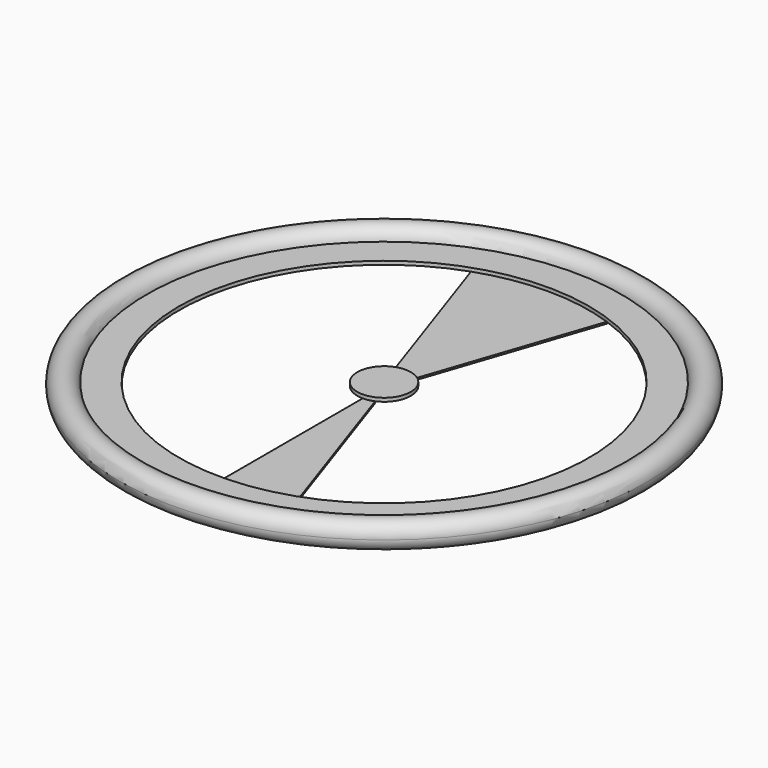
from build123d import *

# Parameters (mm, degrees)
F3_DEPTH = 25
F5_DEPTH = 1


with BuildPart() as f1:
    # F0 (on Front) → F1 (revolve)
    with BuildSketch(Plane.XZ):
        with BuildLine():
            Line((140.5242234468, 0.9917852003), (133.0900885196, 0.9917852003))
            ThreePointArc((133.0900885196, 0.9917852003), (133.0407078307, 0.4969849322), (133.0242234468, 0))
            Line((133.0242234468, 0), (140.5242234468, 0))
            Line((140.5242234468, 0), (140.5242234468, 0.9917852003))
        make_face()
        with BuildLine():
            ThreePointArc((133.0242234468, 0), (133.0407078307, -0.4969849322), (133.0900885196, -0.9917852003))
            Line((133.0900885196, -0.9917852003), (140.5242234468, -0.9917852003))
            Line((140.5242234468, -0.9917852003), (140.5242234468, 0))
            Line((140.5242234468, 0), (133.0242234468, 0))
        make_face()
        with BuildLine():
            ThreePointArc((133.0900885196, -0.9917852003), (141.0212083791, -7.4835156161), (148.0242234468, 0))
            ThreePointArc((148.0242234468, 0), (141.0212083791, 7.4835156161), (133.0900885196, 0.9917852003))
            Line((133.0900885196, 0.9917852003), (140.5242234468, 0.9917852003))
            Line((140.5242234468, 0.9917852003), (140.5242234468, 0))
            Line((140.5242234468, 0), (140.5242234468, -0.9917852003))
            Line((140.5242234468, -0.9917852003), (133.0900885196, -0.9917852003))
        make_face()
        with BuildLine():
            ThreePointArc((133.0900885196, -0.9917852003), (141.0212083791, -7.4835156161), (148.0242234468, 0))
            ThreePointArc((148.0242234468, 0), (141.0212083791, 7.4835156161), (133.0900885196, 0.9917852003))
            Line((133.0900885196, 0.9917852003), (140.5242234468, 0.9917852003))
            Line((140.5242234468, 0.9917852003), (140.5242234468, 0))
            Line((140.5242234468, 0), (140.5242234468, -0.9917852003))
            Line((140.5242234468, -0.9917852003), (133.0900885196, -0.9917852003))
        make_face()
        with BuildLine():
            ThreePointArc((133.0242234468, 0), (133.0407078307, 0.4969849322), (133.0900885196, 0.9917852003))
            Line((133.0900885196, 0.9917852003), (0, 0.9917852003))
            Line((0, 0.9917852003), (0, 0))
            Line((0, 0), (133.0242234468, 0))
        make_face()
        with BuildLine():
            Line((0, -0.9917852003), (133.0900885196, -0.9917852003))
            ThreePointArc((133.0900885196, -0.9917852003), (133.0407078307, -0.4969849322), (133.0242234468, 0))
            Line((133.0242234468, 0), (0, 0))
            Line((0, 0), (0, -0.9917852003))
        make_face()
    revolve(axis=Axis((0, 0, 31.3383042812), (0, 0, 1)))

    # F2 (on face) → F3 (cut)
    with BuildSketch(Plane.XY.offset(0.9917852003)):
        with BuildLine():
            Line((-15, 0), (-15, -114.0175425099))
            ThreePointArc((-15, -114.0175425099), (0, -115), (15, -114.0175425099))
            Line((15, -114.0175425099), (15, 0))
            ThreePointArc((15, 0), (0, -15), (-15, 0))
        make_face()
        with BuildLine():
            ThreePointArc((15, -114.0175425099), (86.458082329, -75.8287544405), (115, 0))
            ThreePointArc((115, 0), (-75.8287544405, 86.458082329), (-15, -114.0175425099))
            Line((-15, -114.0175425099), (-15, 0))
            ThreePointArc((-15, 0), (0, 15), (15, 0))
            Line((15, 0), (15, -114.0175425099))
        make_face()
    extrude(amount=-F3_DEPTH, mode=Mode.SUBTRACT)



with BuildPart() as f5:
    # F4 (on face) → F5 (new body)
    with BuildSketch(Plane(origin=(0, 0, -0.9917852003), x_dir=(1, 0, 0), z_dir=(0, 0, -1))):
        with BuildLine():
            ThreePointArc((0, 15), (3.0485885074, 14.6869366484), (5.9699235033, 13.760814415))
            Line((5.9699235033, 13.760814415), (38.0626162691, 108.518372835))
            ThreePointArc((38.0626162691, 108.518372835), (19.3052729064, 113.368013293), (0, 115))
            Line((0, 115), (0, 15))
        make_face()
    extrude(amount=F5_DEPTH)


with BuildPart() as f6_1:
    # F6: instance of F5
    add(f5.part.mirror(Plane.XZ))


with BuildPart() as f1_1:
    add(f1.part)

    add(f6_1.part)  # F7 merges F6_1
    # F7: F6_1 across plane
    add(f6_1.part.mirror(Plane.YZ))


solid = Compound([f5.part, f1_1.part])
